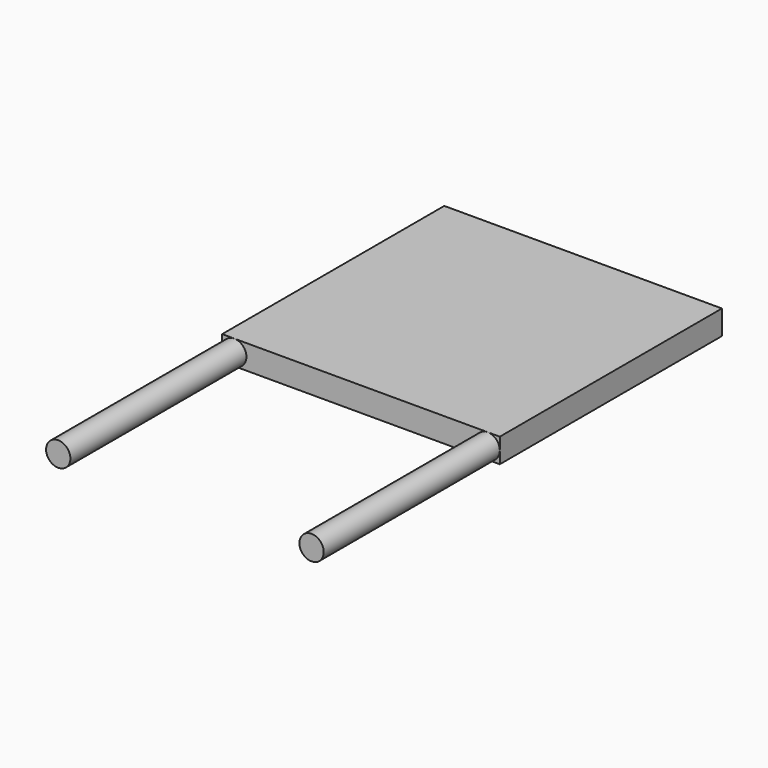
from build123d import *

# Parameters (mm, degrees)
F0_W     = 40.0558
F0_H     = 40.0558
F1_DEPTH = 1.7526
F3_R     = 1.7526
F4_DEPTH = 31.75
F5_W     = 40.0558
F5_H     = 40.0558
F6_DEPTH = 0.019685
F7_W     = 40.0558
F7_H     = 44.069
F8_DEPTH = 0.019685


with BuildPart() as f1:
    # F0 (on Top) → F1 (new body, symmetric)
    with BuildSketch(Plane.XY):
        Rectangle(F0_W, F0_H)
    extrude(amount=F1_DEPTH, both=True)

    # F3 (on face) → F4 (join)
    with BuildSketch(Plane(origin=(0, -20.0279, 0), x_dir=(-1, 0, 0), z_dir=(0, 1, 0))):
        with Locations((-18.2753, 0)):
            Circle(F3_R)
        with Locations((18.2753, 0)):
            Circle(F3_R)
    extrude(amount=-F4_DEPTH)


with BuildPart() as f6:
    # F5 (on face) → F6 (new body)
    with BuildSketch(Plane.XY):
        Rectangle(F5_W, F5_H)
    extrude(amount=F6_DEPTH)


with BuildPart() as f8:
    # F7 (on face) → F8 (new body)
    with BuildSketch(Plane(origin=(0, 0, -1.7526), x_dir=(1, 0, 0), z_dir=(0, 0, -1))):
        with Locations((0, 2.0066)):
            Rectangle(F7_W, F7_H)
    extrude(amount=F8_DEPTH)


solid = f1.part
